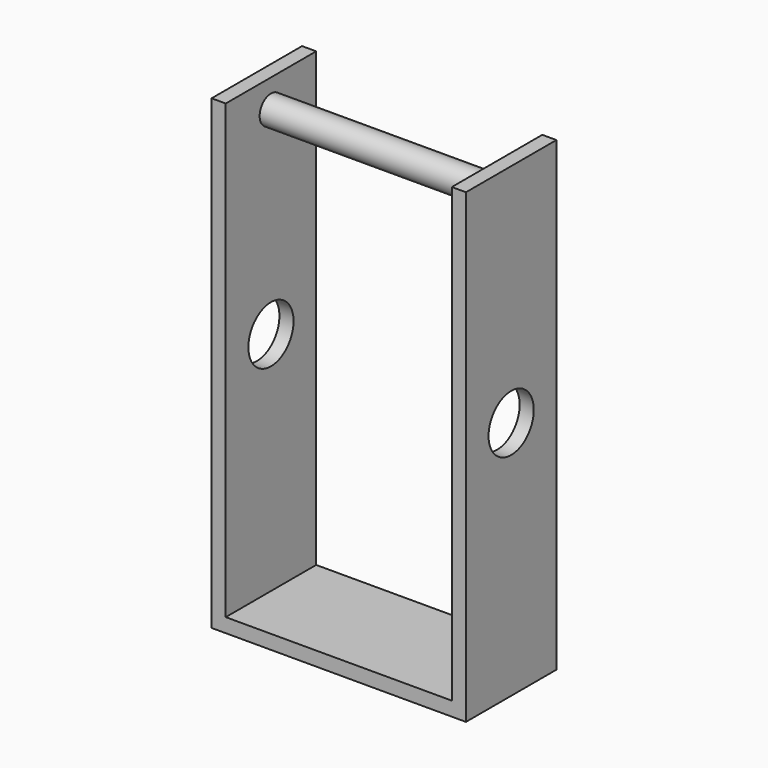
from build123d import *

# Parameters (mm, degrees)
F0_W     = 57.15
F0_H     = 50.8
F1_DEPTH = 6.35
F2_W     = 6.35
F2_H     = 50.8
F3_DEPTH = 203.2
F4_R     = 12.7
F5_DEPTH = 6.35
F7_R     = 6.35
F8_DEPTH = 101.6


with BuildPart() as f1:
    # F0 (on Top) → F1 (new body)
    with BuildSketch(Plane.XY):
        with Locations((-28.575, 0)):
            Rectangle(F0_W, F0_H)
    extrude(amount=F1_DEPTH)

    # F2 (on face) → F3 (join)
    with BuildSketch(Plane.XY.offset(6.35)):
        with Locations((-53.975, 0)):
            Rectangle(F2_W, F2_H)
    extrude(amount=F3_DEPTH)

    # F4 (on face) → F5 (cut, through all)
    with BuildSketch(Plane(origin=(-57.15, 0, 0), x_dir=(0, -1, 0), z_dir=(-1, 0, 0))):
        with Locations((0, 107.95)):
            Circle(F4_R)
    extrude(amount=-F5_DEPTH, mode=Mode.SUBTRACT)

    # F6: F1 across plane


with BuildPart() as f1_1:
    add(f1.part)
    add(f1.part.mirror(Plane.YZ))

    # F7 (on face) → F8 (join, through all)
    with BuildSketch(Plane.YZ.offset(-50.8)):
        with Locations((0, 196.85)):
            Circle(F7_R)
    extrude(amount=F8_DEPTH)


solid = f1_1.part
